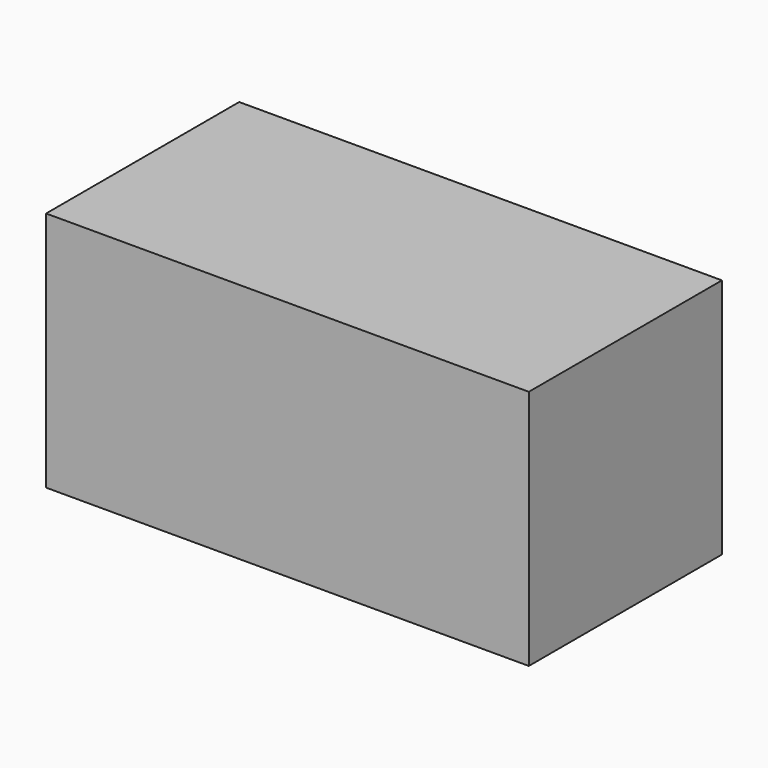
from build123d import *

# Parameters (mm, degrees)
BOX_W     = 20
BOX_H     = 10
BOX_DEPTH = 10


with BuildPart() as part:
    # Box → Box (new body)
    with BuildSketch(Plane.XY):
        with Locations((10, 5)):
            Rectangle(BOX_W, BOX_H)
    extrude(amount=BOX_DEPTH)


solid = part.part
